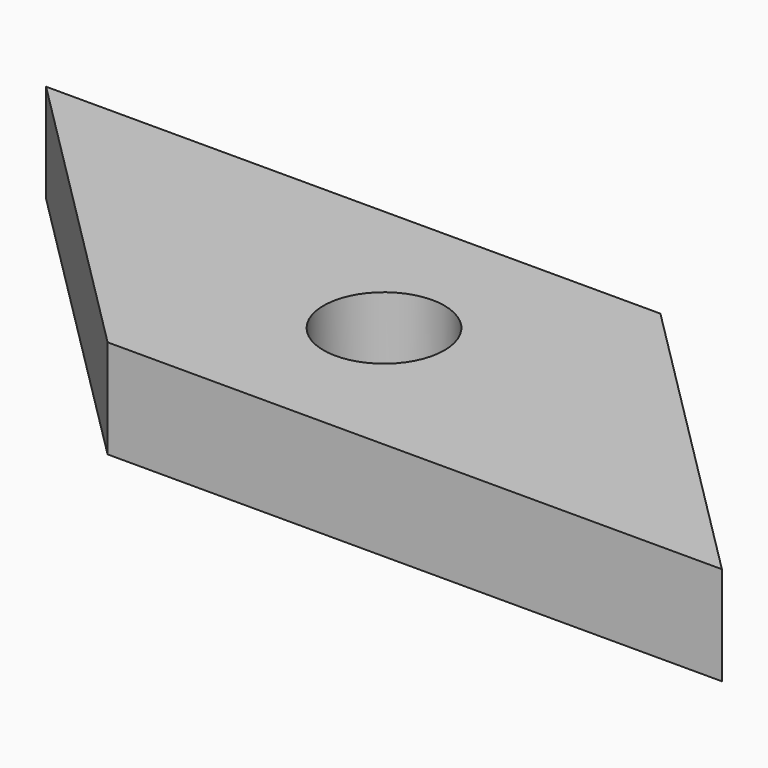
from build123d import *

# Parameters (mm, degrees)
F1_DEPTH = 10.2
F2_R     = 6.25
F3_DEPTH = 10.201


with BuildPart() as f1:
    # F0 (on Top) → F1 (new body)
    with BuildSketch(Plane.XY):
        Polygon((15.854947, 15.895053), (-47.645053, 15.895053), (-15.854947, -15.895053), (47.645053, -15.895053), align=None)
    extrude(amount=F1_DEPTH)

    # F2 (on face) → F3 (cut, through all)
    with BuildSketch(Plane.XY.offset(10.2)):
        Circle(F2_R)
    extrude(amount=-F3_DEPTH, mode=Mode.SUBTRACT)


solid = f1.part
